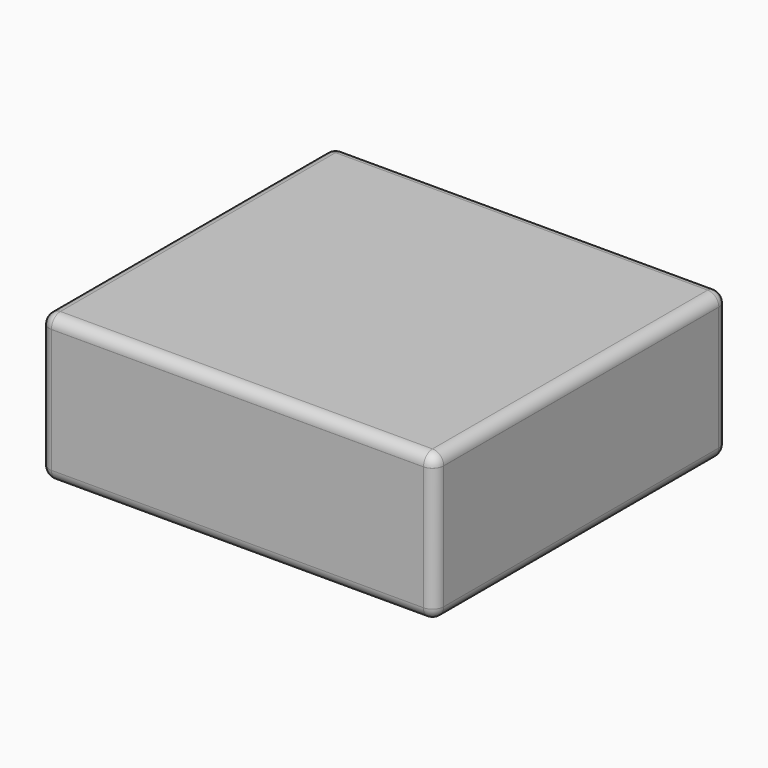
from build123d import *

# Parameters (mm, degrees)
PAD_DEPTH       = 15
SKETCH001_W     = 70
SKETCH001_H     = 65
SKETCH001_R     = 12.5
PAD001_DEPTH    = 2
SKETCH002_W     = 70
SKETCH002_H     = 65
SKETCH002_W_2   = 66
SKETCH002_H_2   = 61
PAD002_DEPTH    = 22
SKETCH003_W     = 30
SKETCH003_H     = 8
POCKET_DEPTH    = 2
SKETCH004_R     = 1.75
POCKET001_DEPTH = 2.001
FILLET_R        = 3
FILLET001_R     = 2
SKETCH007_R     = 10
POCKET002_DEPTH = 5
SKETCH005_W     = 70
SKETCH005_H     = 65
PAD003_DEPTH    = 2
SKETCH006_W     = 65.6
SKETCH006_H     = 60.6
SKETCH006_W_2   = 61.6
SKETCH006_H_2   = 56.6
PAD004_DEPTH    = 6
FILLET002_R     = 1.99


with BuildPart() as obj1:
    # Sketch → Pad (new body)
    with BuildSketch(Plane.XY):
        Polygon((21, -13.5), (21, 13.5), (23, 13.5), (23, -14.452381), (11.5, -26.5), (-11.5, -26.5), (-23, -14.452381), (-23, 13.5), (-21, 13.5), (-21, -13.5), (-10.5, -24.5), (10.5, -24.5), align=None)
    extrude(amount=PAD_DEPTH)

    # Sketch001 → Pad001 (join)
    with BuildSketch(Plane.XY):
        with Locations((0, -6.5)):
            Rectangle(SKETCH001_W, SKETCH001_H)
        with Locations((0, -6.5)):
            Circle(SKETCH001_R, mode=Mode.SUBTRACT)
    extrude(amount=PAD001_DEPTH)

    # Sketch002 (on Face5 of Pad001) → Pad002 (join)
    with BuildSketch(Plane.XY.offset(2)):
        with Locations((0, -6.5)):
            Rectangle(SKETCH002_W, SKETCH002_H)
        with Locations((0, -6.5)):
            Rectangle(SKETCH002_W_2, SKETCH002_H_2, mode=Mode.SUBTRACT)
    extrude(amount=PAD002_DEPTH)

    # Sketch003 (on Face24 of Pad002) → Pocket (cut)
    with BuildSketch(Plane(origin=(0, 26, 0), x_dir=(-1, 0, 0), z_dir=(0, 1, 0))):
        with Locations((0, 9.5)):
            Rectangle(SKETCH003_W, SKETCH003_H)
    extrude(amount=-POCKET_DEPTH, mode=Mode.SUBTRACT)

    # Sketch004 (on Face12 of Pocket) → Pocket001 (cut, through all)
    with BuildSketch(Plane.XY.offset(2)):
        with Locations((-27, 18)):
            Circle(SKETCH004_R)
        with Locations((27, 18)):
            Circle(SKETCH004_R)
        with Locations((-27, -31)):
            Circle(SKETCH004_R)
        with Locations((27, -31)):
            Circle(SKETCH004_R)
    extrude(amount=-POCKET001_DEPTH, mode=Mode.SUBTRACT)

    # Fillet
    fillet_edges = [obj1.edges().sort_by_distance(p)[0] for p in [
        (-15, 25, 13.5),
        (-15, 25, 5.5),
        (15, 25, 5.5),
        (15, 25, 13.5),
    ]]
    fillet(fillet_edges, radius=FILLET_R)

    # Fillet001
    fillet001_edges = [obj1.edges().sort_by_distance(p)[0] for p in [
        (-35, 26, 12),
        (35, 26, 12),
        (35, -39, 12),
        (-35, -39, 12),
        (-35, -6.5, 0),
        (0, -39, 0),
        (35, -6.5, 0),
        (0, 26, 0),
        (0, 24, 2),
        (-33, -6.5, 2),
        (33, -6.5, 2),
        (0, -37, 2),
        (0, -26.5, 2),
        (-17.25, -20.47619, 2),
        (-23, -0.47619, 2),
        (17.25, -20.47619, 2),
        (23, -0.47619, 2),
        (-22, 13.5, 2),
        (22, 13.5, 2),
        (-21, 0, 2),
        (-15.75, -19, 2),
        (0, -24.5, 2),
        (15.75, -19, 2),
        (21, 0, 2),
    ]]
    fillet(fillet001_edges, radius=FILLET001_R)

    # Sketch007 (on Face1 of Fillet001) → Pocket002 (cut)
    with BuildSketch(Plane(origin=(0, 26, 0), x_dir=(-1, 0, 0), z_dir=(0, 1, 0))):
        with Locations((0, 31)):
            Circle(SKETCH007_R)
    extrude(amount=-POCKET002_DEPTH, mode=Mode.SUBTRACT)


with BuildPart() as obj2:
    # Sketch005 (on Face1 of Binder) → Pad003 (new body)
    with BuildSketch(Plane.XY.offset(24)):
        with Locations((0, -6.5)):
            Rectangle(SKETCH005_W, SKETCH005_H)
    extrude(amount=PAD003_DEPTH)

    # Sketch006 (on Face5 of Pad003) → Pad004 (join)
    with BuildSketch(Plane(origin=(0, 0, 24), x_dir=(1, 0, 0), z_dir=(0, 0, -1))):
        with Locations((0, 6.5)):
            Rectangle(SKETCH006_W, SKETCH006_H)
        with Locations((0, 6.5)):
            Rectangle(SKETCH006_W_2, SKETCH006_H_2, mode=Mode.SUBTRACT)
    extrude(amount=PAD004_DEPTH)

    # Fillet002
    fillet002_edges = [obj2.edges().sort_by_distance(p)[0] for p in [
        (-32.8, 23.8, 21),
        (-35, 26, 25),
        (35, 26, 25),
        (32.8, 23.8, 21),
        (32.8, -36.8, 21),
        (35, -39, 25),
        (-32.8, -36.8, 21),
        (-35, -39, 25),
        (-30.8, 21.8, 21),
        (30.8, 21.8, 21),
        (30.8, -34.8, 21),
        (-30.8, -34.8, 21),
        (0, 21.8, 24),
        (-30.8, -6.5, 24),
        (30.8, -6.5, 24),
        (0, -34.8, 24),
        (-35, -6.5, 26),
        (35, -6.5, 26),
        (0, 26, 26),
        (0, -39, 26),
    ]]
    fillet(fillet002_edges, radius=FILLET002_R)


solid = Compound([obj1.part, obj2.part])
